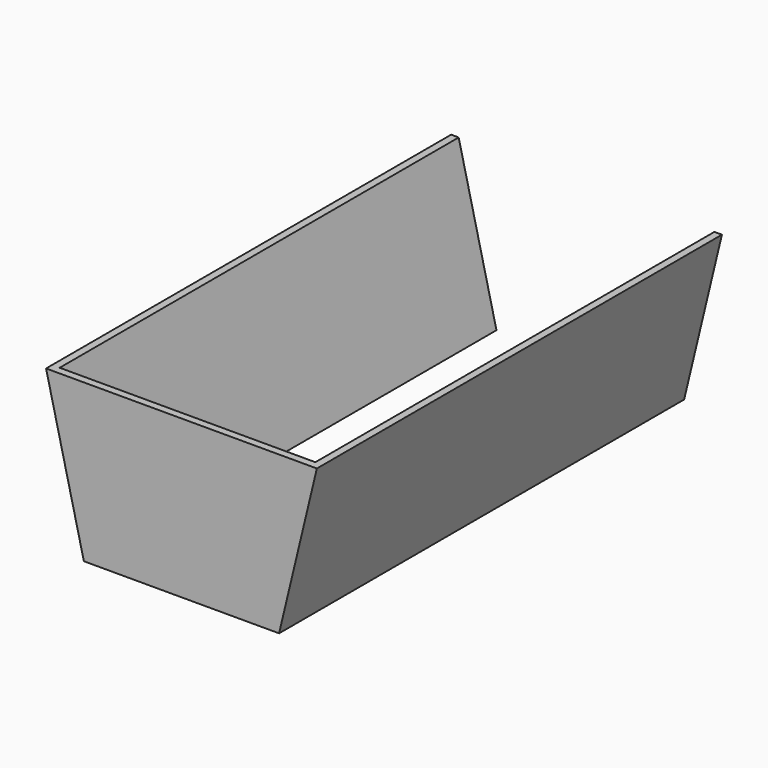
from build123d import *

# Parameters (mm, degrees)
BOX016_W        = 430
BOX016_H        = 12
BOX016_DEPTH    = 250
POCKET012_DEPTH = 12
PAD_DEPTH       = 792


with BuildPart() as part:
    # Box016 → Box016 (new body)
    with BuildSketch(Plane(origin=(185, 144, 60), x_dir=(1, 0, 0), z_dir=(0, 0, 1))):
        with Locations((215, 6)):
            Rectangle(BOX016_W, BOX016_H)
    extrude(amount=BOX016_DEPTH)

    # Sketch012 → Pocket012 (cut)
    with BuildSketch(Plane(origin=(185, 144, 60), x_dir=(1, 0, 0), z_dir=(0, -1, 0))):
        Polygon((0, 250), (0, 0), (60, 0), align=None)
        Polygon((430, 250), (430, 0), (370, 0), align=None)
    extrude(amount=-POCKET012_DEPTH, mode=Mode.SUBTRACT)

    # Sketch019 → Pad (new body)
    with BuildSketch(Plane(origin=(185, 156, 60), x_dir=(-1, 0, 0), z_dir=(0, 1, 0))):
        Polygon((-60, 0), (-72, 0), (-12, 250), (0, 250), align=None)
        Polygon((-370, 0), (-430, 250), (-418, 250), (-358, 0), align=None)
    extrude(amount=PAD_DEPTH)


solid = part.part
